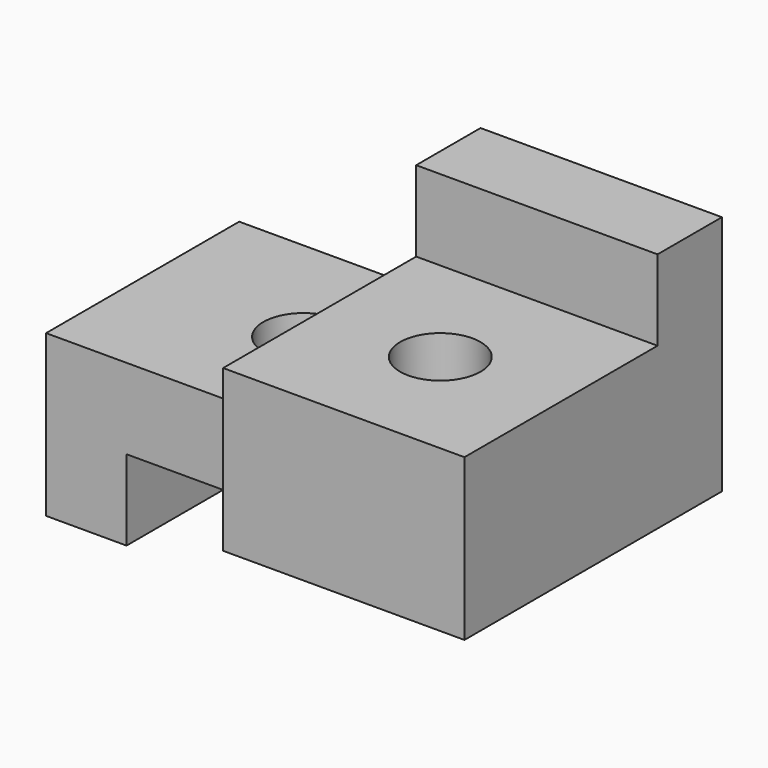
from build123d import *

# Parameters (mm, degrees)
F1_DEPTH  = 19.05
F2_W      = 19.05
F2_H      = 12.7
F3_DEPTH  = 19.051
F4_W      = 19.05
F4_H      = 6.35
F5_DEPTH  = 19.05
F6_W      = 6.35
F6_H      = 6.35
F7_DEPTH  = 19.05
F8_R      = 3.175
F9_DEPTH  = 12.701
F10_R     = 3.175
F11_DEPTH = 19.051


with BuildPart() as f1:
    # F0 (on Top) → F1 (new body)
    with BuildSketch(Plane.XY):
        Polygon((0, 19.05), (0, 0), (19.05, 0), (19.05, -6.35), (38.1, -6.35), (38.1, 19.05), align=None)
    extrude(amount=F1_DEPTH)

    # F2 (on face) → F3 (cut, through all)
    with BuildSketch(Plane.XZ):
        with Locations((9.525, 12.7)):
            Rectangle(F2_W, F2_H)
    extrude(amount=-F3_DEPTH, mode=Mode.SUBTRACT)

    # F4 (on face) → F5 (cut)
    with BuildSketch(Plane.XZ.offset(6.35)):
        with Locations((28.575, 15.875)):
            Rectangle(F4_W, F4_H)
    extrude(amount=-F5_DEPTH, mode=Mode.SUBTRACT)

    # F6 (on Front) → F7 (join)
    with BuildSketch(Plane.XZ):
        with Locations((3.175, -3.175)):
            Rectangle(F6_W, F6_H)
    extrude(amount=-F7_DEPTH)

    # F8 (on face) → F9 (cut, through all)
    with BuildSketch(Plane.XY.offset(6.35)):
        with Locations((12.7, 9.525)):
            Circle(F8_R)
    extrude(amount=-F9_DEPTH, mode=Mode.SUBTRACT)

    # F10 (on face) → F11 (cut, through all)
    with BuildSketch(Plane.XY.offset(12.7)):
        with Locations((28.575, 3.175)):
            Circle(F10_R)
    extrude(amount=-F11_DEPTH, mode=Mode.SUBTRACT)


solid = f1.part
